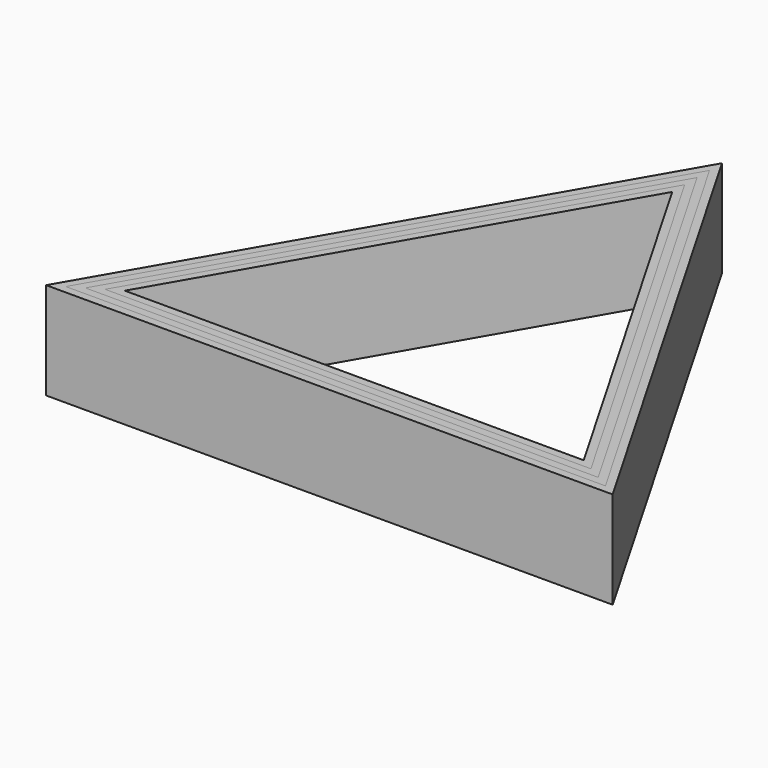
from build123d import *

# Parameters (mm, degrees)
F2_DEPTH = 25
F3_DEPTH = 25
F4_DEPTH = 25
F5_DEPTH = 25


with BuildPart() as f2:
    # F1 (on Top) → F2 (new body)
    with BuildSketch(Plane.XY):
        Polygon((72.928203, -19.162993), (0, 107.152361), (-72.928203, -19.162993), align=None)
        Polygon((-69.464102, -17.162993), (0, 103.152361), (69.464102, -17.162993), align=None, mode=Mode.SUBTRACT)
    extrude(amount=F2_DEPTH)


with BuildPart() as f3:
    # F1 (on Top) → F3 (new body)
    with BuildSketch(Plane.XY):
        Polygon((69.464102, -17.162993), (0, 103.152361), (-69.464102, -17.162993), align=None)
        Polygon((66, -15.162993), (-66, -15.162993), (0, 99.152361), align=None, mode=Mode.SUBTRACT)
    extrude(amount=F3_DEPTH)


with BuildPart() as f4:
    # F1 (on Top) → F4 (new body)
    with BuildSketch(Plane.XY):
        Polygon((0, 95.152361), (-62.535898, -13.162993), (62.535898, -13.162993), align=None)
        Polygon((-59.071797, -11.162993), (0, 91.152361), (59.071797, -11.162993), align=None, mode=Mode.SUBTRACT)
    extrude(amount=F4_DEPTH)


with BuildPart() as f5:
    # F1 (on Top) → F5 (new body)
    with BuildSketch(Plane.XY):
        Polygon((0, 99.152361), (-66, -15.162993), (66, -15.162993), align=None)
        Polygon((62.535898, -13.162993), (-62.535898, -13.162993), (0, 95.152361), align=None, mode=Mode.SUBTRACT)
    extrude(amount=F5_DEPTH)


solid = Compound([f2.part, f3.part, f4.part, f5.part])
